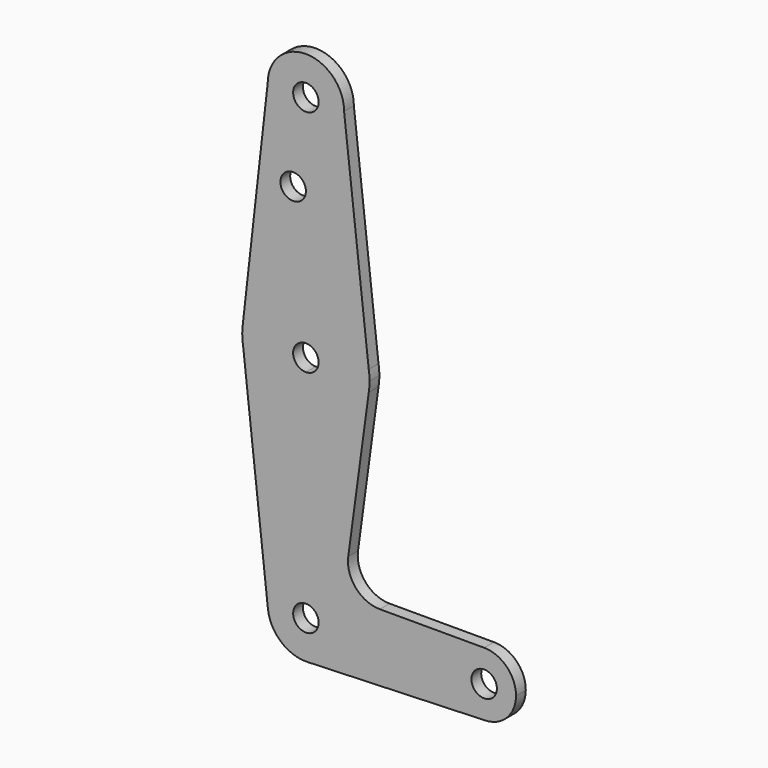
from build123d import *

# Parameters (mm, degrees)
F0_R     = 3.175
F1_DEPTH = 3.048


with BuildPart() as f1:
    # F0 (on Front) → F1 (new body)
    with BuildSketch(Plane.XZ):
        with BuildLine():
            ThreePointArc((0, 9.525), (-7.0969822904, 6.352831445), (-9.4668624167, -1.0507811298))
            ThreePointArc((-9.4668624167, -1.0507811298), (-6.2250661095, -7.209311821), (0.3401785714, -9.5189234444))
            ThreePointArc((0.3401785714, -9.5189234444), (6.8544082857, -6.6138273378), (9.525, 0))
            Line((9.525, 0), (3.175, 0))
            ThreePointArc((3.175, 0), (-2.2450640303, -2.2450640303), (0, 3.175))
            Line((0, 3.175), (0, 9.525))
        make_face()
        with BuildLine():
            Line((-15.6008399776, 54.2124130662), (-9.4668624167, -1.0507811298))
            ThreePointArc((-9.4668624167, -1.0507811298), (-7.0969822904, 6.352831445), (0, 9.525))
            Line((0, 9.525), (0, 41.275))
            ThreePointArc((0, 41.275), (-10.1336427909, 44.9301428492), (-15.6008399776, 54.2124130662))
        make_face()
        with BuildLine():
            ThreePointArc((9.525, 0), (6.8544082857, -6.6138273378), (0.3401785714, -9.5189234444))
            Line((0.3401785714, -9.5189234444), (44.7334821429, -7.9324362036))
            ThreePointArc((44.7334821429, -7.9324362036), (38.9384772185, -5.7120069047), (36.5125, 0))
            Line((36.5125, 0), (9.525, 0))
        make_face()
        with BuildLine():
            Line((0, 41.275), (0, 9.525))
            ThreePointArc((0, 9.525), (6.7351920908, 6.7351920908), (9.525, 0))
            Line((9.525, 0), (36.5125, 0))
            ThreePointArc((36.5125, 0), (38.8373399243, 5.6126600757), (44.45, 7.9375))
            Line((44.45, 7.9375), (18.4381861227, 7.9375))
            ThreePointArc((18.4381861227, 7.9375), (12.4504431814, 10.6577272936), (10.5602126992, 16.9569122238))
            Line((10.5602126992, 16.9569122238), (15.6709296391, 54.6127595216))
            ThreePointArc((15.6709296391, 54.6127595216), (10.2892403122, 45.0608660857), (0, 41.275))
        make_face()
        with BuildLine():
            ThreePointArc((-15.7748262685, 58.9305845108), (-15.8642173945, 56.5649944795), (-15.6008399776, 54.2124130662))
            ThreePointArc((-15.6008399776, 54.2124130662), (-10.1336427909, 44.9301428492), (0, 41.275))
            Line((0, 41.275), (0, 53.975))
            ThreePointArc((0, 53.975), (-3.175, 57.15), (0, 60.325))
            Line((0, 60.325), (0, 73.025))
            ThreePointArc((0, 73.025), (-10.5770706221, 68.9881249383), (-15.7748262685, 58.9305845108))
        make_face()
        with BuildLine():
            ThreePointArc((36.5125, 0), (38.9384772185, -5.7120069047), (44.7334821429, -7.9324362036))
            ThreePointArc((44.7334821429, -7.9324362036), (50.1620069047, -5.5115227815), (52.3875, 0))
            ThreePointArc((52.3875, 0), (50.0626600757, 5.6126600757), (44.45, 7.9375))
            ThreePointArc((44.45, 7.9375), (38.8373399243, 5.6126600757), (36.5125, 0))
        make_face()
        with BuildLine():
            ThreePointArc((47.625, 0), (44.45, -3.175), (41.275, 0))
            ThreePointArc((41.275, 0), (44.45, 3.175), (47.625, 0))
        make_face(mode=Mode.SUBTRACT)
        with BuildLine():
            Line((0, 53.975), (0, 41.275))
            ThreePointArc((0, 41.275), (10.2892403122, 45.0608660857), (15.6709296391, 54.6127595216))
            ThreePointArc((15.6709296391, 54.6127595216), (15.8239001675, 55.8772830286), (15.875, 57.15))
            ThreePointArc((15.875, 57.15), (15.8239001675, 58.4227169714), (15.6709296391, 59.6872404784))
            ThreePointArc((15.6709296391, 59.6872404784), (10.2892403122, 69.2391339143), (0, 73.025))
            Line((0, 73.025), (0, 60.325))
            ThreePointArc((0, 60.325), (2.2450640303, 59.3950640303), (3.175, 57.15))
            ThreePointArc((3.175, 57.15), (2.2450640303, 54.9049359697), (0, 53.975))
        make_face()
        with BuildLine():
            Line((-9.525, 114.3), (-15.7748262685, 58.9305845108))
            ThreePointArc((-15.7748262685, 58.9305845108), (-10.5770706221, 68.9881249383), (0, 73.025))
            Line((0, 73.025), (0, 93.6752))
            Line((0, 93.6752), (0, 104.775))
            ThreePointArc((0, 104.775), (-6.7351920908, 107.5648079092), (-9.525, 114.3))
        make_face()
        with Locations((-3.175, 93.6752)):
            Circle(F0_R, mode=Mode.SUBTRACT)
        with BuildLine():
            Line((0, 93.6752), (0, 73.025))
            ThreePointArc((0, 73.025), (10.2892403122, 69.2391339143), (15.6709296391, 59.6872404784))
            Line((15.6709296391, 59.6872404784), (9.525, 114.3))
            ThreePointArc((9.525, 114.3), (6.7351920908, 107.5648079092), (0, 104.775))
            Line((0, 104.775), (0, 93.6752))
        make_face()
        with BuildLine():
            ThreePointArc((9.525, 114.3), (0, 123.825), (-9.525, 114.3))
            ThreePointArc((-9.525, 114.3), (-6.7351920908, 107.5648079092), (0, 104.775))
            ThreePointArc((0, 104.775), (6.7351920908, 107.5648079092), (9.525, 114.3))
        make_face()
        with Locations((0, 114.3)):
            Circle(F0_R, mode=Mode.SUBTRACT)
        with BuildLine():
            ThreePointArc((9.525, 0), (6.7351920908, 6.7351920908), (0, 9.525))
            Line((0, 9.525), (0, 3.175))
            ThreePointArc((0, 3.175), (2.2450640303, 2.2450640303), (3.175, 0))
            Line((3.175, 0), (9.525, 0))
        make_face()
    extrude(amount=F1_DEPTH)


solid = f1.part
